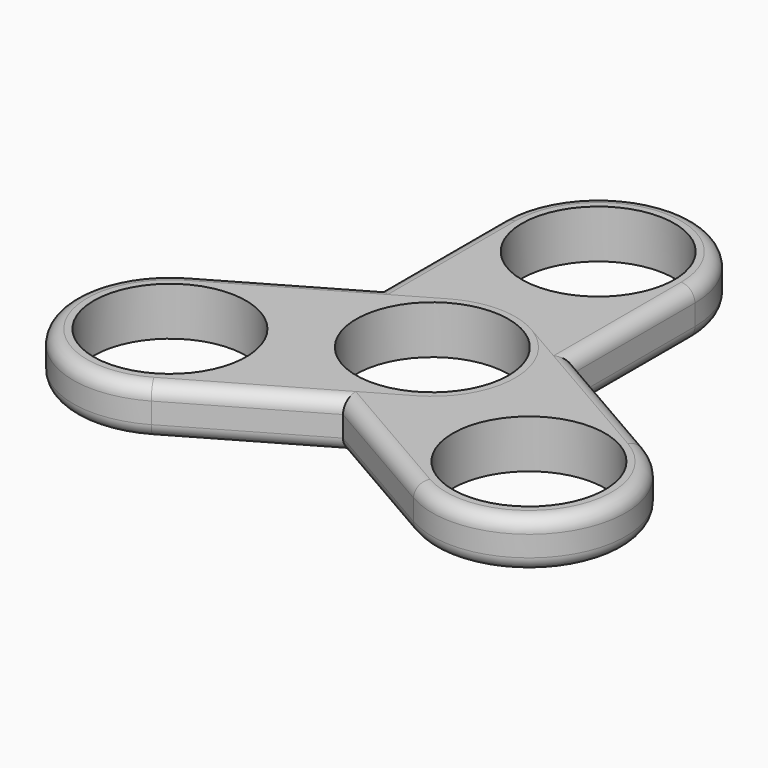
from build123d import *

# Parameters (mm, degrees)
F1_DEPTH = 7
F2_COUNT = 3
F3_R     = 2


with BuildPart() as f1:
    # F0 (on Top) → F1 (new body)
    with BuildSketch(Plane.XY):
        with BuildLine():
            ThreePointArc((-14, 15), (0, 1), (14, 15))
            Line((14, 15), (11.025, 15))
            ThreePointArc((11.025, 15), (0, 3.975), (-11.025, 15))
            Line((-11.025, 15), (-14, 15))
        make_face()
        with BuildLine():
            Line((11.025, 15), (14, 15))
            ThreePointArc((14, 15), (0, 29), (-14, 15))
            Line((-14, 15), (-11.025, 15))
            ThreePointArc((-11.025, 15), (0, 26.025), (11.025, 15))
        make_face()
        with BuildLine():
            ThreePointArc((-14, -15), (0, -1), (14, -15))
            Line((14, -15), (14, 15))
            ThreePointArc((14, 15), (0, 1), (-14, 15))
            Line((-14, 15), (-14, -15))
        make_face()
        with BuildLine():
            ThreePointArc((-14, -15), (0, -29), (14, -15))
            Line((14, -15), (11.025, -15))
            ThreePointArc((11.025, -15), (0, -26.025), (-11.025, -15))
            Line((-11.025, -15), (-14, -15))
        make_face()
        with BuildLine():
            Line((11.025, -15), (14, -15))
            ThreePointArc((14, -15), (0, -1), (-14, -15))
            Line((-14, -15), (-11.025, -15))
            ThreePointArc((-11.025, -15), (0, -3.975), (11.025, -15))
        make_face()
    extrude(amount=F1_DEPTH)

    # F3
    f3_edges = [f1.edges().sort_by_distance(p)[0] for p in [
        (-14, 0, 7),
        (14, 0, 7),
        (-14, 0, 0),
        (14, 0, 0),
    ]]
    fillet(f3_edges, radius=F3_R)


with BuildPart() as f2_1:
    # F2: instance of F1
    add(f1.part.rotate(Axis((0, -15, 7), (0, 0, -1)), 1 * 360 / F2_COUNT))


with BuildPart() as f2_2:
    # F2: instance of F1
    add(f1.part.rotate(Axis((0, -15, 7), (0, 0, -1)), 2 * 360 / F2_COUNT))


solid = Compound([f1.part, f2_1.part, f2_2.part])
